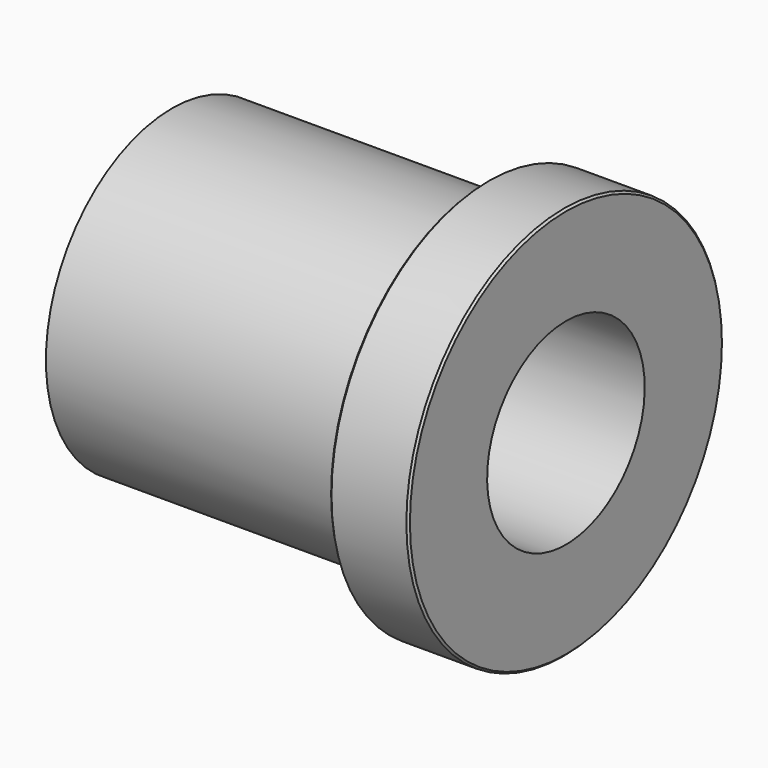
from build123d import *

# Parameters (mm, degrees)
F2_SIZE2 = 0.05
F2_SIZE  = 0.05


with BuildPart() as f1:
    # F0 (on Front) → F1 (revolve)
    with BuildSketch(Plane.XZ):
        Polygon((0, 4), (0, 2.5), (10, 2.5), (10, 5), (8, 5), (8, 4), align=None)
    revolve(axis=Axis((5, 0, 0), (1, 0, 0)))

    # F2
    f2_edges = [f1.edges().sort_by_distance(p)[0] for p in [
        (10, 0, -5),
        (8, 0, -5),
    ]]
    chamfer(f2_edges, length=F2_SIZE, length2=F2_SIZE2)


solid = f1.part
